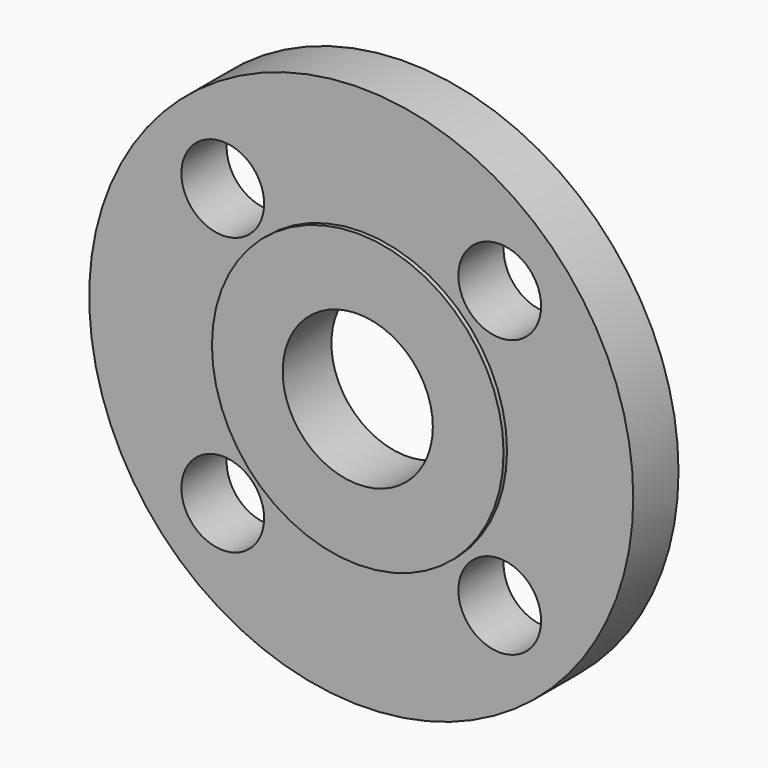
from build123d import *

# Parameters (mm, degrees)
F0_R     = 62.5
F0_R_2   = 17.25
F1_DEPTH = 14
F2_R     = 62.5
F2_R_2   = 33.5
F3_DEPTH = 1
F4_R     = 9.5
F5_DEPTH = 14.001


with BuildPart() as f1:
    # F0 (on Front) → F1 (new body)
    with BuildSketch(Plane.XZ):
        Circle(F0_R)
        Circle(F0_R_2, mode=Mode.SUBTRACT)
    extrude(amount=-F1_DEPTH)

    # F2 (on face) → F3 (cut)
    with BuildSketch(Plane.XZ):
        Circle(F2_R)
        Circle(F2_R_2, mode=Mode.SUBTRACT)
    extrude(amount=-F3_DEPTH, mode=Mode.SUBTRACT)

    # F4 (on face) → F5 (cut, through all)
    with BuildSketch(Plane.XZ):
        with Locations((-31.819805, 31.819805)):
            Circle(F4_R)
        with Locations((-31.819805, -31.819805)):
            Circle(F4_R)
        with Locations((31.819805, -31.819805)):
            Circle(F4_R)
        with Locations((31.819805, 31.819805)):
            Circle(F4_R)
    extrude(amount=-F5_DEPTH, mode=Mode.SUBTRACT)


solid = f1.part
